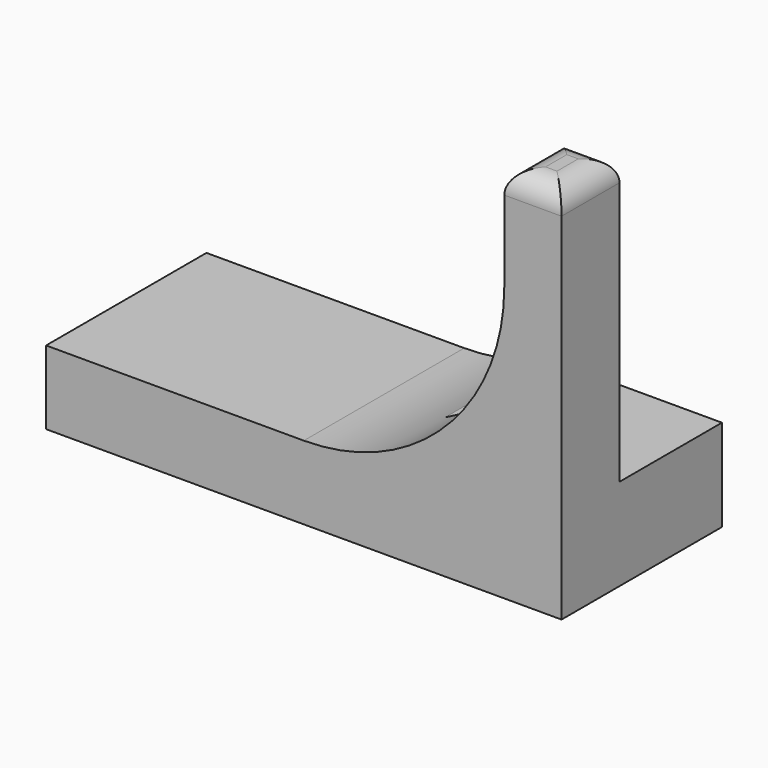
from build123d import *

# Parameters (mm, degrees)
F1_DEPTH = 44.45
F2_W     = 28.3845
F2_H     = 63.4492
F3_DEPTH = 114.3
F5_DEPTH = 127
F6_R     = 5.08


with BuildPart() as f1:
    # F0 (on Front) → F1 (new body)
    with BuildSketch(Plane.XZ):
        with BuildLine():
            Line((0, 83.82), (0, 0))
            Line((0, 0), (114.3, 0))
            Line((114.3, 0), (114.3, 83.82))
            Line((114.3, 83.82), (101.6, 83.82))
            Line((101.6, 83.82), (101.6, 60.7949))
            ThreePointArc((101.6, 60.7949), (57.15, 16.3449), (12.7, 60.7949))
            Line((12.7, 60.7949), (12.7, 83.82))
            Line((12.7, 83.82), (0, 83.82))
        make_face()
    extrude(amount=-F1_DEPTH)

    # F2 (on face) → F3 (cut)
    with BuildSketch(Plane.YZ.offset(114.3)):
        with Locations((30.25775, 52.0954)):
            Rectangle(F2_W, F2_H)
    extrude(amount=-F3_DEPTH, mode=Mode.SUBTRACT)

    # F4 (on face) → F5 (cut)
    with BuildSketch(Plane.XZ):
        with BuildLine():
            Line((0, 16.3449), (57.15, 16.3449))
            ThreePointArc((57.15, 16.3449), (25.7191035763, 29.3640035763), (12.7, 60.7949))
            Line((12.7, 60.7949), (12.7, 83.82))
            Line((12.7, 83.82), (0, 83.82))
            Line((0, 83.82), (0, 16.3449))
        make_face()
    extrude(amount=-F5_DEPTH, mode=Mode.SUBTRACT)

    # F6
    f6_edges = [f1.edges().sort_by_distance(p)[0] for p in [
        (107.95, 0, 83.82),
        (101.6, 8.03275, 83.82),
        (107.95, 16.0655, 83.82),
        (114.3, 8.03275, 83.82),
    ]]
    fillet(f6_edges, radius=F6_R)


solid = f1.part
